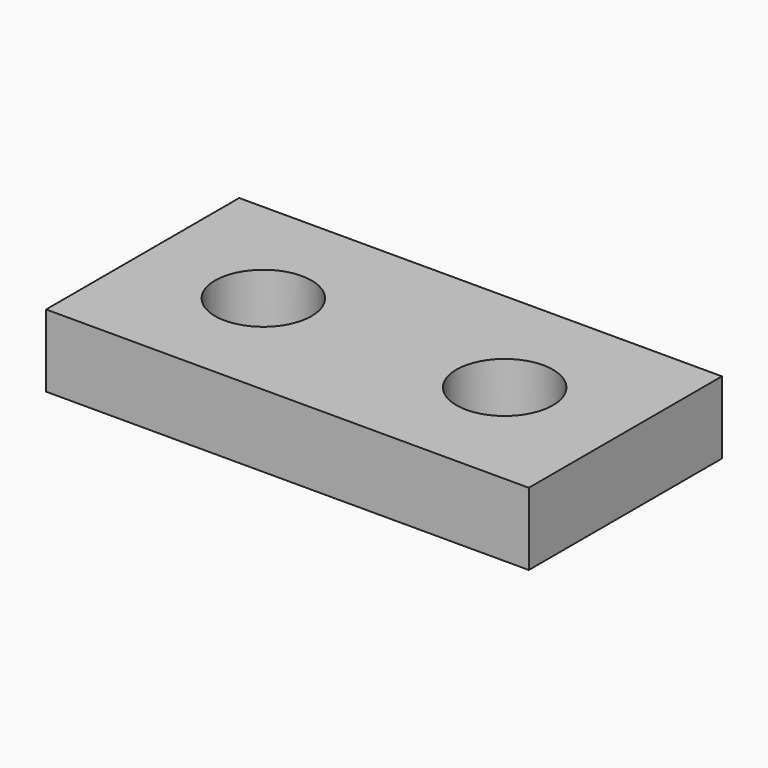
from build123d import *

# Parameters (mm, degrees)
F0_W     = 20
F0_H     = 10
F1_DEPTH = 3
F3_DEPTH = 3


with BuildPart() as f1:
    # F0 (on Top) → F1 (new body)
    with BuildSketch(Plane.XY):
        Rectangle(F0_W, F0_H)
    extrude(amount=F1_DEPTH)

    # F2 (on face) → F3 (cut)
    with BuildSketch(Plane.XY.offset(3)):
        with BuildLine():
            ThreePointArc((7, 0), (5, 2), (3, 0))
            Line((3, 0), (7, 0))
        make_face()
        with BuildLine():
            Line((7, 0), (3, 0))
            ThreePointArc((3, 0), (5, -2), (7, 0))
        make_face()
        with BuildLine():
            ThreePointArc((-7, 0), (-5, -2), (-3, 0))
            Line((-3, 0), (-7, 0))
        make_face()
        with BuildLine():
            Line((-7, 0), (-3, 0))
            ThreePointArc((-3, 0), (-5, 2), (-7, 0))
        make_face()
    extrude(amount=-F3_DEPTH, mode=Mode.SUBTRACT)


solid = f1.part
